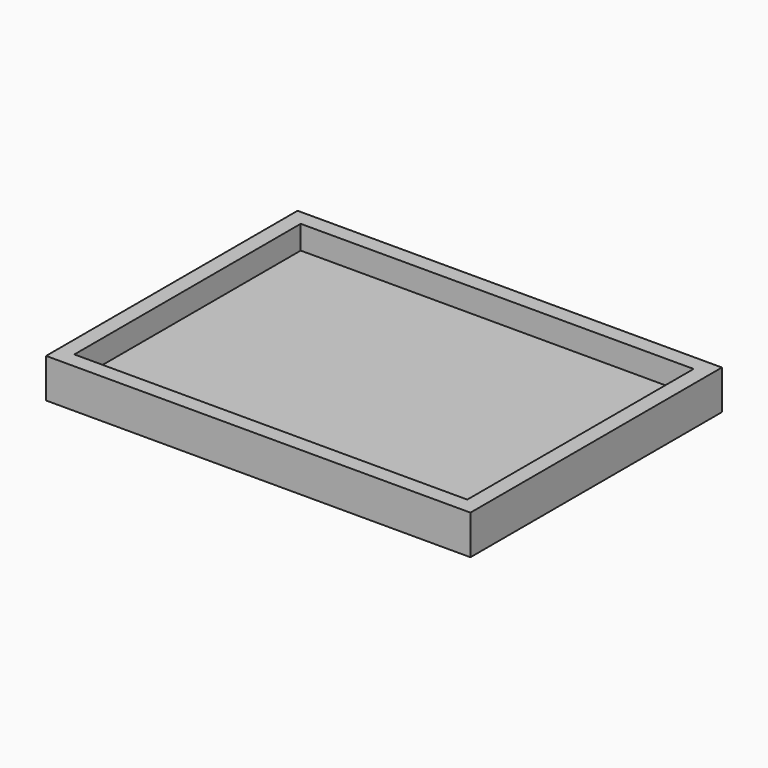
from build123d import *

# Parameters (mm, degrees)
F0_W     = 25
F0_H     = 18
F1_DEPTH = 1
F0_W_2   = 1
F2_DEPTH = 2.5


with BuildPart() as f1:
    # F0 (on Top) → F1 (new body)
    with BuildSketch(Plane.XY):
        with Locations((-35.655684, 11.245334)):
            Rectangle(F0_W, F0_H)
    extrude(amount=F1_DEPTH)

    # F0 (on Top) → F2 (join)
    with BuildSketch(Plane.XY):
        Polygon((-49.155684, 20.245334), (-48.155684, 20.245334), (-23.155684, 20.245334), (-22.155684, 20.245334), (-22.155684, 21.245334), (-49.155684, 21.245334), align=None)
        Polygon((-23.155684, 2.245334), (-48.155684, 2.245334), (-49.155684, 2.245334), (-49.155684, 1.245334), (-22.155684, 1.245334), (-22.155684, 2.245334), align=None)
        with Locations((-48.655684, 11.245334)):
            Rectangle(F0_W_2, F0_H)
        with Locations((-22.655684, 11.245334)):
            Rectangle(F0_W_2, F0_H)
    extrude(amount=F2_DEPTH)


solid = f1.part
